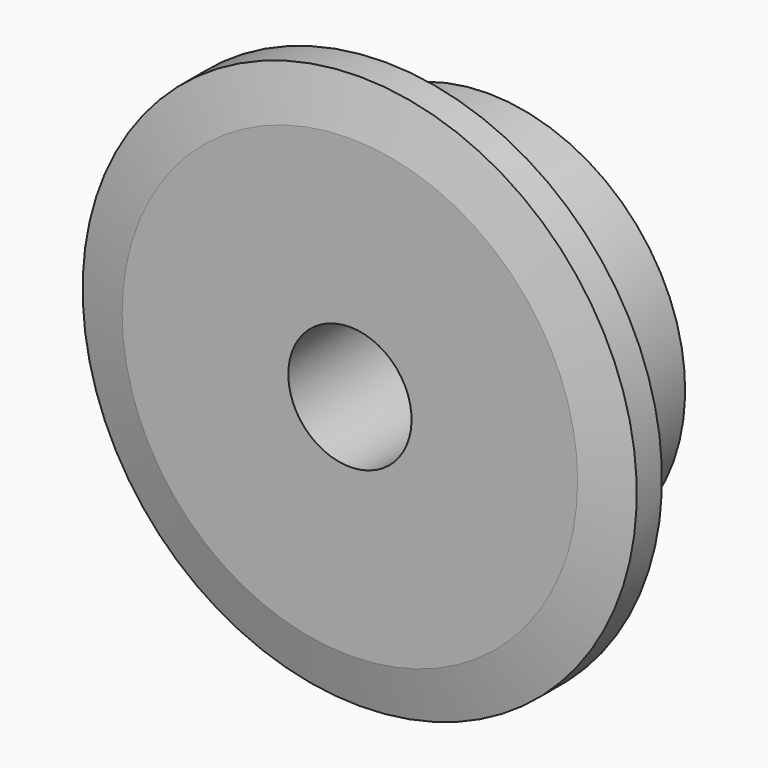
from build123d import *

# Parameters (mm, degrees)
F0_W     = 5.91
F0_H     = 6.875
F0_W_2   = 2.84
F0_H_2   = 4.05
F2_R     = 1
F3_SIZE2 = 2.5
F3_SIZE  = 0.62


with BuildPart() as f1:
    # F0 (on Right) → F1 (revolve)
    with BuildSketch(Plane.YZ):
        with Locations((5.795, 6.5625)):
            Rectangle(F0_W, F0_H)
        with Locations((1.42, 6.5625)):
            Rectangle(F0_W_2, F0_H)
        with Locations((1.42, 12.025)):
            Rectangle(F0_W_2, F0_H_2)
    revolve(axis=Axis((0, 4.375, 0), (0, 1, 0)))

    # F2
    f2_edges = [f1.edges().sort_by_distance(p)[0] for p in [
        (0, 2.84, -10),
    ]]
    fillet(f2_edges, radius=F2_R)

    # F3
    f3_edges = [f1.edges().sort_by_distance(p)[0] for p in [
        (0, 0, -14.05),
        (0, 2.84, -14.05),
    ]]
    f3_side = f1.faces().sort_by_distance((0, 1.42, -14.05))[0]
    chamfer(f3_edges, length=F3_SIZE, length2=F3_SIZE2, reference=f3_side)


solid = f1.part
